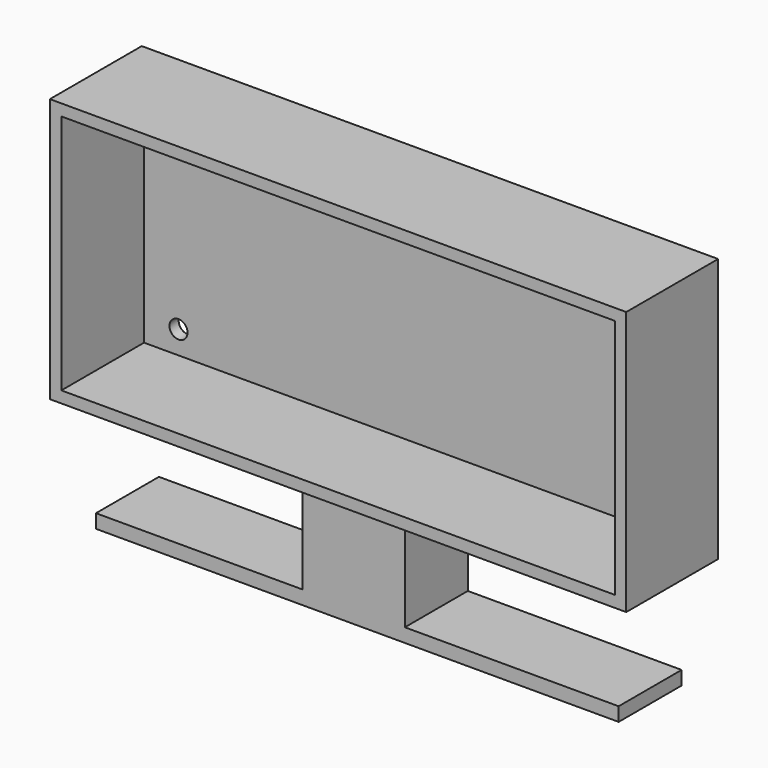
from build123d import *

# Parameters (mm, degrees)
F0_W     = 127.461821
F0_H     = 58.419999
F1_DEPTH = 25.4
F2_T     = -2.54
F4_D     = 4
F5_W     = 22.663121
F5_H     = 17.466478
F6_DEPTH = 21.844
F7_W     = 47.276701
F7_H     = 17.408888
F7_W_2   = 45.647759
F7_W_3   = 22.663121
F8_DEPTH = 3.048


with BuildPart() as f1:
    # F0 (on Front) → F1 (new body)
    with BuildSketch(Plane.XZ):
        with Locations((1.847274, 26.785453)):
            Rectangle(F0_W, F0_H)
    extrude(amount=F1_DEPTH)

    # F2
    f2_openings = [f1.faces().sort_by_distance(p)[0] for p in [
        (1.847275, -25.4, 26.785454),
    ]]
    offset(amount=F2_T, openings=f2_openings)

    # F4 (through all)
    with Locations(Plane(origin=(0, 0, 0), x_dir=(-1, 0, 0), z_dir=(0, 1, 0))):
        with Locations((51.723637, 5.195455)):
            Hole(F4_D / 2)

    # F5 (on face) → F6 (join)
    with BuildSketch(Plane(origin=(0, 0, -2.424546), x_dir=(1, 0, 0), z_dir=(0, 0, -1))):
        with Locations((1.726462, 12.215246)):
            Rectangle(F5_W, F5_H)
    extrude(amount=F6_DEPTH)

    # F7 (on face) → F8 (join)
    with BuildSketch(Plane(origin=(0, 0, -24.268546), x_dir=(1, 0, 0), z_dir=(0, 0, -1))):
        with Locations((36.696372, 12.244041)):
            Rectangle(F7_W, F7_H)
        with Locations((-32.428978, 12.244041)):
            Rectangle(F7_W_2, F7_H)
        with Locations((1.726462, 12.244041)):
            Rectangle(F7_W_3, F7_H)
    extrude(amount=F8_DEPTH)


solid = f1.part
